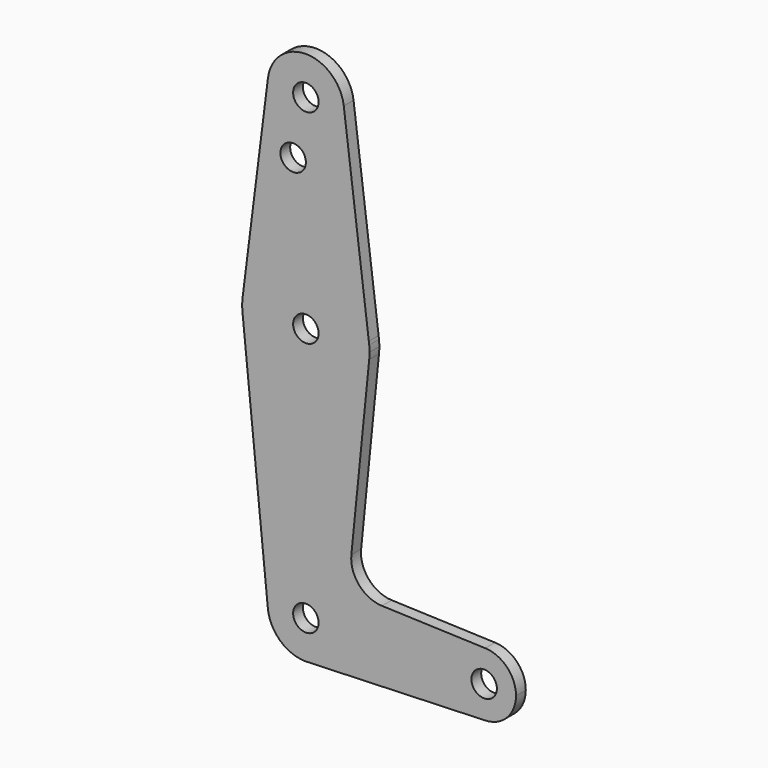
from build123d import *

# Parameters (mm, degrees)
F0_R     = 3.175
F1_DEPTH = 3.048


with BuildPart() as f1:
    # F0 (on Front) → F1 (new body)
    with BuildSketch(Plane.XZ):
        with BuildLine():
            ThreePointArc((-9.450411, 115.48969), (-0.596013, 104.793666), (9.525, 114.3))
            ThreePointArc((9.525, 114.3), (9.506334, 114.896013), (9.450411, 115.48969))
            ThreePointArc((9.450411, 115.48969), (0, 123.825), (-9.450411, 115.48969))
        make_face()
        with Locations((0, 114.3)):
            Circle(F0_R, mode=Mode.SUBTRACT)
        with BuildLine():
            ThreePointArc((9.450411, 115.48969), (9.506334, 114.896013), (9.525, 114.3))
            ThreePointArc((9.525, 114.3), (-0.596013, 104.793666), (-9.450411, 115.48969))
            Line((-9.450411, 115.48969), (-15.696051, 65.876889))
            ThreePointArc((-15.696051, 65.876889), (0, 79.375), (15.696051, 65.876889))
            Line((15.696051, 65.876889), (9.450411, 115.48969))
        make_face()
        with Locations((-3.175, 100.0252)):
            Circle(F0_R, mode=Mode.SUBTRACT)
        with BuildLine():
            Line((15.795426, 65.0875), (15.696051, 65.876889))
            ThreePointArc((15.696051, 65.876889), (0, 79.375), (-15.696051, 65.876889))
            Line((-15.696051, 65.876889), (-15.795426, 65.0875))
            ThreePointArc((-15.795426, 65.0875), (-15.875, 63.5), (-15.795426, 61.9125))
            ThreePointArc((-15.795426, 61.9125), (0, 47.625), (15.795426, 61.9125))
            ThreePointArc((15.795426, 61.9125), (15.855094, 62.705253), (15.875, 63.5))
            ThreePointArc((15.875, 63.5), (15.855094, 64.294747), (15.795426, 65.0875))
        make_face()
        with Locations((0, 63.5)):
            Circle(F0_R, mode=Mode.SUBTRACT)
        with BuildLine():
            ThreePointArc((15.795426, 61.9125), (0, 47.625), (-15.795426, 61.9125))
            Line((-15.795426, 61.9125), (-9.477255, -0.9525))
            ThreePointArc((-9.477255, -0.9525), (-0.476848, 9.513056), (9.525, 0))
            ThreePointArc((9.525, 0), (6.970557, -6.491299), (0.677344, -9.500886))
            Line((0.677344, -9.500886), (44.732405, -7.932475))
            ThreePointArc((44.732405, -7.932475), (36.5125, 0.000539), (44.733482, 7.932436))
            Line((44.733482, 7.932436), (18.9676, 8.853234))
            ThreePointArc((18.9676, 8.853234), (13.2612, 11.571359), (11.341187, 17.593382))
            Line((11.341187, 17.593382), (15.795426, 61.9125))
        make_face()
        with BuildLine():
            ThreePointArc((52.3875, 0), (50.162007, 5.511523), (44.733482, 7.932436))
            ThreePointArc((44.733482, 7.932436), (36.5125, 0.000539), (44.732405, -7.932475))
            ThreePointArc((44.732405, -7.932475), (50.161633, -5.51191), (52.3875, 0))
        make_face()
        with Locations((44.45, 0)):
            Circle(F0_R, mode=Mode.SUBTRACT)
        with BuildLine():
            ThreePointArc((9.525, 0), (-0.476848, 9.513056), (-9.477255, -0.9525))
            ThreePointArc((-9.477255, -0.9525), (-6.389564, -7.063929), (0, -9.525))
            Line((0, -9.525), (0.677344, -9.500886))
            ThreePointArc((0.677344, -9.500886), (6.970557, -6.491299), (9.525, 0))
        make_face()
        Circle(F0_R, mode=Mode.SUBTRACT)
    extrude(amount=F1_DEPTH)


solid = f1.part
